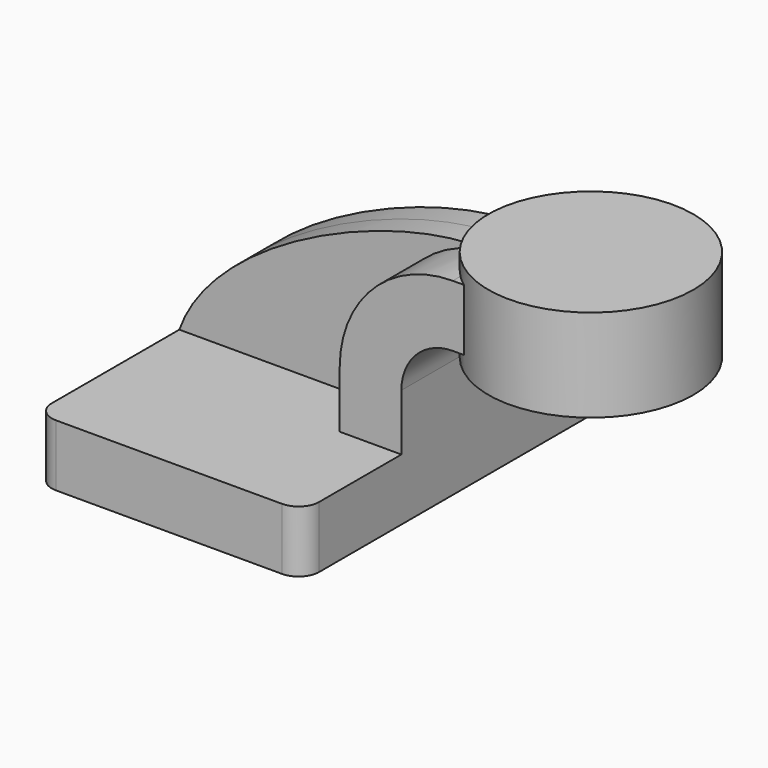
from build123d import *

# Parameters (mm, degrees)
F1_DEPTH = 63.5
F0_W     = 19.148961
F0_H     = 19.05
F2_DEPTH = 25.4
F3_DEPTH = 7.9375
F5_R     = 6.35


with BuildPart() as f1:
    # F0 (on Front) → F1 (new body, symmetric)
    with BuildSketch(Plane.XZ):
        Polygon((22.225, 9.525), (-41.275, 9.525), (-41.275, -9.525), (41.275, -9.525), (41.275, 9.525), align=None)
    extrude(amount=F1_DEPTH, both=True)

    # F0 (on Front) → F2 (join, symmetric)
    with BuildSketch(Plane.XZ):
        with Locations((69.89948, 52.38242)):
            Rectangle(F0_W, F0_H)
        with BuildLine():
            Line((22.225, 26.98242), (22.225, 9.525))
            Line((22.225, 9.525), (41.275, 9.525))
            Line((41.275, 9.525), (41.275, 26.98242))
            ThreePointArc((41.275, 26.98242), (45.92468, 38.20774), (57.15, 42.85742))
            Line((57.15, 42.85742), (60.325, 42.85742))
            Line((60.325, 42.85742), (60.325, 61.90742))
            Line((60.325, 61.90742), (57.15, 61.90742))
            ThreePointArc((57.15, 61.90742), (32.454296, 51.678124), (22.225, 26.98242))
        make_face()
    extrude(amount=F2_DEPTH, both=True)

    # F0 (on Front) → F3 (join, symmetric)
    with BuildSketch(Plane.XZ):
        with BuildLine():
            add(Edge.make_bspline(
                [(-41.275, 9.525), (-30.242277, 40.943753), (28.724005, 65.23551), (57.15, 61.90742)],
                knots=[0, 0, 0, 0, 111.496182, 111.496182, 111.496182, 111.496182], degree=3))
            Line((-41.275, 9.525), (22.225, 9.525))
            Line((22.225, 9.525), (22.225, 26.98242))
            ThreePointArc((22.225, 26.98242), (32.454296, 51.678124), (57.15, 61.90742))
        make_face()
    extrude(amount=F3_DEPTH, both=True)

    # F0 (on Front) → F4 (revolve)
    with BuildSketch(Plane.XZ):
        Polygon((79.473961, 66.675), (79.473961, 61.90742), (79.473961, 42.85742), (79.473961, 38.1), (111.125, 38.1), (111.125, 66.675), align=None)
    revolve(axis=Axis((79.473961, 0, 52.38242), (0, 0, -1)))

    # F5
    f5_edges = [f1.edges().sort_by_distance(p)[0] for p in [
        (-41.275, -63.5, 0),
        (41.275, -63.5, 0),
        (-41.275, 63.5, 0),
        (41.275, 63.5, 0),
    ]]
    fillet(f5_edges, radius=F5_R)


solid = f1.part
